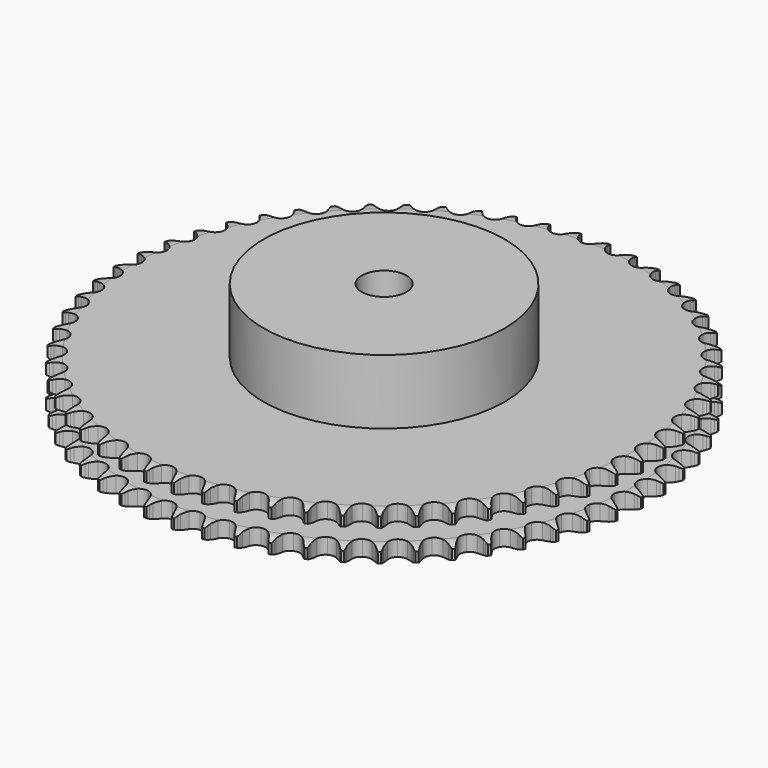
from build123d import *

# Parameters (mm, degrees)
PAD_DEPTH         = 21
SKETCH001_R       = 54
PAD001_DEPTH      = 50
SKETCH002_R       = 10
POCKET_DEPTH      = 0.001
POCKET_DEPTH_BACK = 50.001


with BuildPart() as part:
    # Sprocket → Pad (new body)
    with BuildSketch(Plane.XY):
        with BuildLine():
            ThreePointArc((-6.560182, 118.905189), (-5.902758, 117.925471), (-5.423288, 116.847436))
            Line((-5.423288, 116.847436), (-5.010083, 115.649784))
            ThreePointArc((-5.010083, 115.649784), (-4.357623, 114.134023), (-3.488072, 112.731484))
            ThreePointArc((-3.488072, 112.731484), (-1.956919, 111.425579), (0, 110.95624))
            ThreePointArc((0, 110.95624), (1.956919, 111.425579), (3.488072, 112.731484))
            ThreePointArc((3.488072, 112.731484), (4.357623, 114.134023), (5.010083, 115.649784))
            Line((5.010083, 115.649784), (5.423288, 116.847436))
            ThreePointArc((5.423288, 116.847436), (5.902758, 117.925471), (6.560182, 118.905189))
            ThreePointArc((6.560182, 118.905189), (7.105839, 117.859096), (7.463806, 116.734857))
            Line((7.463806, 116.734857), (7.742752, 115.499018))
            ThreePointArc((7.742752, 115.499018), (8.224505, 113.920681), (8.934488, 112.430996))
            ThreePointArc((8.934488, 112.430996), (10.312687, 110.964579), (12.206099, 110.282811))
            ThreePointArc((12.206099, 110.282811), (14.202772, 110.534024), (15.868291, 111.663563))
            Line((15.868291, 111.663563), (17.702102, 114.396718))
            ThreePointArc((17.702102, 114.396718), (17.957011, 114.976911), (18.244551, 115.541645))
            ThreePointArc((18.244551, 115.541645), (18.839704, 116.560392), (19.600915, 117.461841))
            ThreePointArc((19.600915, 117.461841), (20.028181, 116.36207), (20.2603, 115.205276))
            Line((20.2603, 115.205276), (20.4016, 113.946251))
            ThreePointArc((20.4016, 113.946251), (20.7068, 112.324496), (21.248596, 110.765749))
            ThreePointArc((21.248596, 110.765749), (22.457112, 109.156618), (24.264032, 108.270697))
            ThreePointArc((24.264032, 108.270697), (26.276222, 108.300736), (28.055892, 109.240199))
            Line((28.055892, 109.240199), (30.179242, 111.75503))
            ThreePointArc((30.179242, 111.75503), (30.49643, 112.30366), (30.84435, 112.833335))
            ThreePointArc((30.84435, 112.833335), (31.547961, 113.780427), (32.403718, 114.592665))
            ThreePointArc((32.403718, 114.592665), (32.707407, 113.452567), (32.810861, 112.277258))
            Line((32.810861, 112.277258), (32.8128, 111.010331))
            ThreePointArc((32.8128, 111.010331), (32.937741, 109.364844), (33.304774, 107.755956))
            ThreePointArc((33.304774, 107.755956), (34.328938, 106.023645), (36.027432, 104.944325))
            ThreePointArc((36.027432, 104.944325), (38.030715, 104.752823), (39.902931, 105.490806))
            Line((39.902931, 105.490806), (42.290046, 107.756788))
            ThreePointArc((42.290046, 107.756788), (42.665663, 108.267195), (43.06974, 108.755381))
            ThreePointArc((43.06974, 108.755381), (43.873269, 109.619322), (44.813185, 110.33249))
            ThreePointArc((44.813185, 110.33249), (44.989611, 109.165903), (44.963142, 107.986347))
            Line((44.963142, 107.986347), (44.825698, 106.726896))
            ThreePointArc((44.825698, 106.726896), (44.768863, 105.077652), (44.956678, 103.438151))
            ThreePointArc((44.956678, 103.438151), (45.784057, 101.603688), (47.353508, 100.34407))
            ThreePointArc((47.353508, 100.34407), (49.323566, 99.933353), (51.265603, 100.460898))
            Line((51.265603, 100.460898), (53.887507, 102.450525))
            ThreePointArc((53.887507, 102.450525), (54.316993, 102.916513), (54.772322, 103.357284))
            ThreePointArc((54.772322, 103.357284), (55.666014, 104.127586), (56.67868, 104.733028))
            ThreePointArc((56.67868, 104.733028), (56.725701, 103.554113), (56.569633, 102.384628))
            Line((56.569633, 102.384628), (56.294472, 101.14794))
            ThreePointArc((56.294472, 101.14794), (56.056552, 99.514958), (56.062868, 97.864747))
            ThreePointArc((56.062868, 97.864747), (56.68342, 95.950399), (58.104777, 94.525774))
            ThreePointArc((58.104777, 94.525774), (60.017695, 93.900828), (62.00598, 94.21153))
            Line((62.00598, 94.21153), (64.830846, 95.900651))
            ThreePointArc((64.830846, 95.900651), (65.308988, 96.316564), (65.810042, 96.704569))
            ThreePointArc((65.810042, 96.704569), (66.78305, 97.371883), (67.856173, 97.862249))
            ThreePointArc((67.856173, 97.862249), (67.773218, 96.685316), (67.489444, 95.540098))
            Line((67.489444, 95.540098), (67.079908, 94.341186))
            ThreePointArc((67.079908, 94.341186), (66.663791, 92.744288), (66.488532, 91.103398))
            ThreePointArc((66.488532, 91.103398), (66.894723, 89.132403), (68.150733, 87.560064))
            ThreePointArc((68.150733, 87.560064), (69.983292, 86.728474), (71.993689, 86.818562))
            Line((71.993689, 86.818562), (74.987227, 88.186673))
            ThreePointArc((74.987227, 88.186673), (75.508221, 88.547462), (76.048917, 88.877992))
            ThreePointArc((76.048917, 88.877992), (77.089429, 89.434217), (78.209984, 89.803554))
            ThreePointArc((78.209984, 89.803554), (77.99806, 88.64289), (77.590025, 87.53584))
            Line((77.590025, 87.53584), (77.051084, 86.389258))
            ThreePointArc((77.051084, 86.389258), (76.461821, 84.847828), (76.107114, 83.236177))
            ThreePointArc((76.107114, 83.236177), (76.294014, 81.23246), (77.369431, 79.531492))
            ThreePointArc((77.369431, 79.531492), (79.099386, 78.503353), (81.107492, 78.371735))
            Line((81.107492, 78.371735), (84.233364, 79.402228))
            ThreePointArc((84.233364, 79.402228), (84.790886, 79.703513), (85.364661, 79.972557))
            ThreePointArc((85.364661, 79.972557), (86.460048, 80.410941), (87.614432, 80.654766))
            ThreePointArc((87.614432, 80.654766), (87.276111, 79.52446), (86.748768, 78.469016))
            Line((86.748768, 78.469016), (86.086965, 77.388681))
            ThreePointArc((86.086965, 77.388681), (85.331708, 75.921431), (84.801859, 74.358582))
            ThreePointArc((84.801859, 74.358582), (84.7672, 72.346466), (85.648969, 70.537517))
            ThreePointArc((85.648969, 70.537517), (87.25532, 69.325308), (89.236759, 68.973581))
            Line((89.236759, 68.973581), (92.457023, 69.653947))
            ThreePointArc((92.457023, 69.653947), (93.044304, 69.892073), (93.644195, 70.096363))
            ThreePointArc((93.644195, 70.096363), (94.781159, 70.411585), (95.955359, 70.526939))
            ThreePointArc((95.955359, 70.526939), (95.494749, 69.440711), (94.854499, 68.449685))
            Line((94.854499, 68.449685), (94.077866, 67.44871))
            ThreePointArc((94.077866, 67.44871), (93.165784, 66.07345), (92.467225, 64.578374))
            ThreePointArc((92.467225, 64.578374), (92.211426, 62.582283), (92.888844, 60.687311))
            ThreePointArc((92.888844, 60.687311), (94.352093, 59.305748), (96.282813, 58.738181))
            Line((96.282813, 58.738181), (99.558378, 59.060163))
            ThreePointArc((99.558378, 59.060163), (100.168291, 59.232237), (100.787014, 59.369295))
            ThreePointArc((100.787014, 59.369295), (101.951754, 59.557528), (103.131518, 59.54301))
            ThreePointArc((103.131518, 59.54301), (102.554209, 58.514045), (101.808824, 57.599467))
            Line((101.808824, 57.599467), (100.92679, 56.690003))
            ThreePointArc((100.92679, 56.690003), (99.868953, 55.423426), (99.010163, 54.014272))
            ThreePointArc((99.010163, 54.014272), (98.536331, 52.058436), (99.001175, 50.100444))
            ThreePointArc((99.001175, 50.100444), (100.30356, 48.566296), (102.160125, 47.789779))
            Line((102.160125, 47.789779), (105.451229, 47.749467))
            ThreePointArc((105.451229, 47.749467), (106.07637, 47.853402), (106.706415, 47.921563))
            ThreePointArc((106.706415, 47.921563), (107.884794, 47.980523), (109.0558, 47.836309))
            ThreePointArc((109.0558, 47.836309), (108.368801, 46.877099), (107.527329, 46.05007))
            Line((107.527329, 46.05007), (106.550599, 45.243157))
            ThreePointArc((106.550599, 45.243157), (105.359849, 44.100638), (104.351253, 42.79451))
            ThreePointArc((104.351253, 42.79451), (103.665138, 40.90267), (103.911766, 38.905425))
            ThreePointArc((103.911766, 38.905425), (105.037477, 37.237316), (106.797351, 36.261273))
            Line((106.797351, 36.261273), (110.064046, 35.859158))
            ThreePointArc((110.064046, 35.859158), (110.696826, 35.893691), (111.330546, 35.892129))
            ThreePointArc((111.330546, 35.892129), (112.508258, 35.821099), (113.656292, 35.54894))
            ThreePointArc((113.656292, 35.54894), (112.867942, 34.671127), (111.940597, 33.941687))
            Line((111.940597, 33.941687), (110.881028, 33.247119))
            ThreePointArc((110.881028, 33.247119), (109.571819, 32.242527), (108.425659, 31.055281))
            ThreePointArc((108.425659, 31.055281), (107.535591, 29.250401), (107.561008, 27.238147))
            ThreePointArc((107.561008, 27.238147), (108.496381, 25.456324), (110.138201, 24.292605))
            Line((110.138201, 24.292605), (113.340834, 23.533568))
            ThreePointArc((113.340834, 23.533568), (113.973572, 23.49828), (114.603274, 23.427013))
            ThreePointArc((114.603274, 23.427013), (115.766025, 23.226856), (116.877151, 22.830056))
            ThreePointArc((116.877151, 22.830056), (115.997019, 22.044296), (114.995058, 21.421298))
            Line((114.995058, 21.421298), (113.865512, 20.847507))
            ThreePointArc((113.865512, 20.847507), (112.453735, 19.993036), (111.183925, 18.939082))
            ThreePointArc((111.183925, 18.939082), (110.100707, 17.243072), (109.904606, 15.240234))
            ThreePointArc((109.904606, 15.240234), (110.638287, 13.366328), (112.142123, 12.029058))
            Line((112.142123, 12.029058), (115.241818, 10.922311))
            ThreePointArc((115.241818, 10.922311), (115.866834, 10.817631), (116.484874, 10.677524))
            ThreePointArc((116.484874, 10.677524), (117.618549, 10.350671), (118.67928, 9.834046))
            ThreePointArc((118.67928, 9.834046), (117.718049, 9.149876), (116.653634, 8.640883))
            Line((116.653634, 8.640883), (115.467823, 8.194835))
            ThreePointArc((115.467823, 8.194835), (113.970615, 7.500857), (112.592569, 6.592989))
            ThreePointArc((112.592569, 6.592989), (111.32935, 5.026435), (110.91411, 3.057326))
            ThreePointArc((110.91411, 3.057326), (111.437193, 1.114082), (112.784792, -0.380505))
            Line((112.784792, -0.380505), (115.743922, -1.821527))
            ThreePointArc((115.743922, -1.821527), (116.353629, -1.994329), (116.952505, -2.201575))
            ThreePointArc((116.952505, -2.201575), (118.043343, -2.651158), (119.040803, -3.281337))
            ThreePointArc((119.040803, -3.281337), (118.010142, -3.855611), (116.896194, -4.24442))
            Line((116.896194, -4.24442), (115.668511, -4.557312))
            ThreePointArc((115.668511, -4.557312), (114.104047, -5.082373), (112.634491, -5.833134))
            ThreePointArc((112.634491, -5.833134), (111.206606, -7.251216), (110.577268, -9.162694))
            ThreePointArc((110.577268, -9.162694), (110.883403, -11.151687), (112.058406, -12.78545))
            Line((112.058406, -12.78545), (114.841052, -14.543255))
            ThreePointArc((114.841052, -14.543255), (115.428049, -14.78208), (116.000491, -15.05395))
            ThreePointArc((116.000491, -15.05395), (117.03525, -15.620806), (117.957332, -16.356888))
            ThreePointArc((117.957332, -16.356888), (116.869752, -16.814296), (115.719792, -17.078201))
            Line((115.719792, -17.078201), (114.465139, -17.25414))
            ThreePointArc((114.465139, -17.25414), (112.85241, -17.60391), (111.309183, -18.188451))
            ThreePointArc((111.309183, -18.188451), (109.733963, -19.440847), (108.898167, -21.271491))
            ThreePointArc((108.898167, -21.271491), (108.983639, -23.28209), (109.971782, -25.035197))
            Line((109.971782, -25.035197), (112.544167, -27.088447))
            ThreePointArc((112.544167, -27.088447), (113.101328, -27.390397), (113.640388, -27.72359))
            ThreePointArc((113.640388, -27.72359), (114.606508, -28.400838), (115.442019, -29.233889))
            ThreePointArc((115.442019, -29.233889), (114.310721, -29.568878), (113.138709, -29.704677))
            Line((113.138709, -29.704677), (111.872316, -29.741525))
            ThreePointArc((111.872316, -29.741525), (110.230897, -29.911759), (108.632733, -30.322984))
            ThreePointArc((108.632733, -30.322984), (106.9293, -31.394492), (105.89719, -33.122081))
            ThreePointArc((105.89719, -33.122081), (105.760961, -35.129879), (106.550251, -36.981051))
            Line((106.550251, -36.981051), (108.881148, -39.304822))
            ThreePointArc((108.881148, -39.304822), (109.401711, -39.666232), (109.900845, -40.056704))
            ThreePointArc((109.900845, -40.056704), (110.786599, -40.836122), (111.525396, -41.756031))
            ThreePointArc((111.525396, -41.756031), (110.364112, -41.964534), (109.184275, -41.970578))
            Line((109.184275, -41.970578), (107.921515, -41.867888))
            ThreePointArc((107.921515, -41.867888), (106.271331, -41.856519), (104.637628, -42.089438))
            ThreePointArc((104.637628, -42.089438), (102.826659, -42.967051), (101.610765, -44.570614))
            ThreePointArc((101.610765, -44.570614), (101.254488, -46.55124), (101.835343, -48.478004))
            Line((101.835343, -48.478004), (103.89646, -51.04409))
            ThreePointArc((103.89646, -51.04409), (104.374105, -51.460572), (104.827255, -51.903583))
            ThreePointArc((104.827255, -51.903583), (105.62189, -52.775711), (106.255005, -53.77131))
            ThreePointArc((106.255005, -53.77131), (105.077833, -53.850797), (103.904492, -53.727012))
            Line((103.904492, -53.727012), (102.660692, -53.486033))
            ThreePointArc((102.660692, -53.486033), (101.021775, -53.293199), (99.372364, -53.344983))
            ThreePointArc((99.372364, -53.344983), (97.475842, -54.018048), (96.090922, -55.47812))
            ThreePointArc((96.090922, -55.47812), (95.518923, -57.407532), (95.884293, -59.3865))
            Line((95.884293, -59.3865), (97.650609, -62.163751))
            ThreePointArc((97.650609, -62.163751), (98.079539, -62.630251), (98.481204, -63.120423))
            ThreePointArc((98.481204, -63.120423), (99.175075, -64.074674), (99.694823, -65.133879))
            ThreePointArc((99.694823, -65.133879), (98.516052, -65.083385), (97.363449, -64.831274))
            Line((97.363449, -64.831274), (96.153708, -64.454929))
            ThreePointArc((96.153708, -64.454929), (94.545951, -64.082971), (92.900855, -63.952992))
            ThreePointArc((92.900855, -63.952992), (90.9418, -64.413339), (89.404666, -65.712197))
            ThreePointArc((89.404666, -65.712197), (88.623887, -67.566973), (88.769337, -69.574125))
            Line((88.769337, -69.574125), (90.219412, -72.528829))
            ThreePointArc((90.219412, -72.528829), (90.59442, -73.039684), (90.939724, -73.571067))
            ThreePointArc((90.939724, -73.571067), (91.524408, -74.595858), (91.924481, -75.70581))
            ThreePointArc((91.924481, -75.70581), (90.758418, -75.525948), (89.640546, -75.148572))
            Line((89.640546, -75.148572), (88.479548, -74.641429))
            ThreePointArc((88.479548, -74.641429), (86.922467, -74.094863), (85.301655, -73.784699))
            ThreePointArc((85.301655, -73.784699), (83.303848, -74.026739), (81.633159, -75.148616))
            ThreePointArc((81.633159, -75.148616), (80.653077, -76.906244), (80.576841, -78.917214))
            Line((80.576841, -78.917214), (81.693074, -82.013505))
            ThreePointArc((81.693074, -82.013505), (82.009608, -82.562513), (82.294359, -83.128658))
            ThreePointArc((82.294359, -83.128658), (82.76276, -84.211549), (83.0383, -85.358776))
            ThreePointArc((83.0383, -85.358776), (81.899101, -85.051729), (80.829528, -84.553668))
            Line((80.829528, -84.553668), (79.731366, -83.921884))
            ThreePointArc((79.731366, -83.921884), (78.243863, -83.207343), (76.667008, -82.720759))
            ThreePointArc((76.667008, -82.720759), (74.654701, -82.741555), (72.870735, -83.672834))
            ThreePointArc((72.870735, -83.672834), (71.703249, -85.311977), (71.406252, -87.302355))
            Line((71.406252, -87.302355), (72.175093, -90.502649))
            ThreePointArc((72.175093, -90.502649), (72.42931, -91.083146), (72.650052, -91.677179))
            ThreePointArc((72.650052, -91.677179), (72.996483, -92.805026), (73.144147, -93.975602))
            ThreePointArc((73.144147, -93.975602), (72.04564, -93.545097), (71.037348, -92.932397))
            Line((71.037348, -92.932397), (70.015354, -92.183641))
            ThreePointArc((70.015354, -92.183641), (68.615484, -91.309799), (67.101728, -90.652701))
            ThreePointArc((67.101728, -90.652701), (65.099346, -90.452001), (63.223759, -91.181376))
            ThreePointArc((63.223759, -91.181376), (61.88304, -92.682138), (61.368888, -94.627764))
            Line((61.368888, -94.627764), (61.781003, -97.893212))
            ThreePointArc((61.781003, -97.893212), (61.969818, -98.498152), (62.123872, -99.112864))
            ThreePointArc((62.123872, -99.112864), (62.344128, -100.271976), (62.362123, -101.451691))
            ThreePointArc((62.362123, -101.451691), (61.317642, -100.902954), (60.382872, -100.183053))
            Line((60.382872, -100.183053), (59.44945, -99.326413))
            ThreePointArc((59.44945, -99.326413), (58.154206, -98.303878), (56.721923, -97.484242))
            ThreePointArc((56.721923, -97.484242), (54.753773, -97.064481), (52.809333, -97.5831))
            ThreePointArc((52.809333, -97.5831), (51.311655, -98.927263), (50.586588, -100.804519))
            Line((50.586588, -100.804519), (50.636976, -104.095485))
            ThreePointArc((50.636976, -104.095485), (50.758097, -104.717525), (50.843593, -105.345453))
            ThreePointArc((50.843593, -105.345453), (50.935, -106.521759), (50.823107, -107.696294))
            ThreePointArc((50.823107, -107.696294), (49.845331, -107.035986), (48.99543, -106.217622))
            Line((48.99543, -106.217622), (48.16191, -105.263497))
            ThreePointArc((48.16191, -105.263497), (46.987015, -104.10468), (45.653592, -103.132457))
            ThreePointArc((45.653592, -103.132457), (43.743564, -102.498731), (41.753873, -102.800298))
            ThreePointArc((41.753873, -102.800298), (40.117415, -103.971545), (39.190236, -105.757645))
            Line((39.190236, -105.757645), (38.878285, -109.03418))
            ThreePointArc((38.878285, -109.03418), (38.930241, -109.665768), (38.946141, -110.29929))
            ThreePointArc((38.946141, -110.29929), (38.90759, -111.478513), (38.667167, -112.63361))
            ThreePointArc((38.667167, -112.63361), (37.767965, -111.869747), (37.013249, -110.962853))
            Line((37.013249, -110.962853), (36.28975, -109.922825))
            ThreePointArc((36.28975, -109.922825), (35.249465, -108.641793), (34.031087, -107.528783))
            ThreePointArc((34.031087, -107.528783), (32.202367, -106.688785), (30.191577, -106.769639))
            ThreePointArc((30.191577, -106.769639), (28.436205, -107.753754), (27.318167, -109.427016))
            Line((27.318167, -109.427016), (26.647664, -112.649347))
            ThreePointArc((26.647664, -112.649347), (26.629825, -113.282818), (26.575935, -113.914244))
            ThreePointArc((26.575935, -113.914244), (26.407894, -115.082069), (26.041861, -116.203707))
            ThreePointArc((26.041861, -116.203707), (25.232147, -115.34556), (24.581778, -114.361145))
            Line((24.581778, -114.361145), (23.977081, -113.247839))
            ThreePointArc((23.977081, -113.247839), (23.084034, -111.860142), (21.995491, -110.619855))
            ThreePointArc((21.995491, -110.619855), (20.270277, -109.583781), (18.262797, -109.442941))
            ThreePointArc((18.262797, -109.442941), (16.409818, -110.227978), (15.114493, -111.768091))
            Line((15.114493, -111.768091), (14.093577, -114.897104))
            ThreePointArc((14.093577, -114.897104), (14.006158, -115.524767), (13.883134, -116.146433))
            ThreePointArc((13.883134, -116.146433), (13.587642, -117.288684), (13.100441, -118.363248))
            ThreePointArc((13.100441, -118.363248), (12.390045, -117.421234), (11.851917, -116.371248))
            Line((11.851917, -116.371248), (11.373363, -115.198177))
            ThreePointArc((11.373363, -115.198177), (10.638394, -113.72066), (9.6929, -112.368153))
            ThreePointArc((9.6929, -112.368153), (8.092134, -111.148579), (6.112331, -110.787754))
            ThreePointArc((6.112331, -110.787754), (4.184238, -111.364184), (2.72735, -112.752453))
            Line((2.72735, -112.752453), (1.368412, -115.750166))
            ThreePointArc((1.368412, -115.750166), (1.212476, -116.364403), (1.02181, -116.968762))
            ThreePointArc((1.02181, -116.968762), (0.602455, -118.071573), (0, -119.086019))
            ThreePointArc((0, -119.086019), (-0.602455, -118.071573), (-1.02181, -116.968762))
            Line((-1.02181, -116.968762), (-1.368412, -115.750166))
            ThreePointArc((-1.368412, -115.750166), (-1.936381, -114.200764), (-2.72735, -112.752453))
            ThreePointArc((-2.72735, -112.752453), (-4.184238, -111.364184), (-6.112331, -110.787754))
            ThreePointArc((-6.112331, -110.787754), (-8.092134, -111.148579), (-9.6929, -112.368153))
            Line((-9.6929, -112.368153), (-11.373363, -115.198177))
            ThreePointArc((-11.373363, -115.198177), (-11.595924, -115.791532), (-11.851917, -116.371248))
            ThreePointArc((-11.851917, -116.371248), (-12.390045, -117.421234), (-13.100441, -118.363248))
            ThreePointArc((-13.100441, -118.363248), (-13.587642, -117.288684), (-13.883134, -116.146433))
            Line((-13.883134, -116.146433), (-14.093577, -114.897104))
            ThreePointArc((-14.093577, -114.897104), (-14.487652, -113.294625), (-15.114493, -111.768091))
            ThreePointArc((-15.114493, -111.768091), (-16.409818, -110.227978), (-18.262797, -109.442941))
            ThreePointArc((-18.262797, -109.442941), (-20.270277, -109.583781), (-21.995491, -110.619855))
            Line((-21.995491, -110.619855), (-23.977081, -113.247839))
            ThreePointArc((-23.977081, -113.247839), (-24.263565, -113.813109), (-24.581778, -114.361145))
            ThreePointArc((-24.581778, -114.361145), (-25.232147, -115.34556), (-26.041861, -116.203707))
            ThreePointArc((-26.041861, -116.203707), (-26.407894, -115.082069), (-26.575935, -113.914244))
            Line((-26.575935, -113.914244), (-26.647664, -112.649347))
            ThreePointArc((-26.647664, -112.649347), (-26.863061, -111.013242), (-27.318167, -109.427016))
            ThreePointArc((-27.318167, -109.427016), (-28.436205, -107.753754), (-30.191577, -106.769639))
            ThreePointArc((-30.191577, -106.769639), (-32.202367, -106.688785), (-34.031087, -107.528783))
            Line((-34.031087, -107.528783), (-36.28975, -109.922825))
            ThreePointArc((-36.28975, -109.922825), (-36.636679, -110.453149), (-37.013249, -110.962853))
            ThreePointArc((-37.013249, -110.962853), (-37.767965, -111.869747), (-38.667167, -112.63361))
            ThreePointArc((-38.667167, -112.63361), (-38.90759, -111.478513), (-38.946141, -110.29929))
            Line((-38.946141, -110.29929), (-38.878285, -109.03418))
            ThreePointArc((-38.878285, -109.03418), (-38.91239, -107.384309), (-39.190236, -105.757645))
            ThreePointArc((-39.190236, -105.757645), (-40.117415, -103.971545), (-41.753873, -102.800298))
            ThreePointArc((-41.753873, -102.800298), (-43.743564, -102.498731), (-45.653592, -103.132457))
            Line((-45.653592, -103.132457), (-48.16191, -105.263497))
            ThreePointArc((-48.16191, -105.263497), (-48.565073, -105.752437), (-48.99543, -106.217622))
            ThreePointArc((-48.99543, -106.217622), (-49.845331, -107.035986), (-50.823107, -107.696294))
            ThreePointArc((-50.823107, -107.696294), (-50.935, -106.521759), (-50.843593, -105.345453))
            Line((-50.843593, -105.345453), (-50.636976, -104.095485))
            ThreePointArc((-50.636976, -104.095485), (-50.489375, -102.451876), (-50.586588, -100.804519))
            ThreePointArc((-50.586588, -100.804519), (-51.311655, -98.927263), (-52.809333, -97.5831))
            ThreePointArc((-52.809333, -97.5831), (-54.753773, -97.064481), (-56.721923, -97.484242))
            Line((-56.721923, -97.484242), (-59.44945, -99.326413))
            ThreePointArc((-59.44945, -99.326413), (-59.903954, -99.768034), (-60.382872, -100.183053))
            ThreePointArc((-60.382872, -100.183053), (-61.317642, -100.902954), (-62.362123, -101.451691))
            ThreePointArc((-62.362123, -101.451691), (-62.344128, -100.271976), (-62.123872, -99.112864))
            Line((-62.123872, -99.112864), (-61.781003, -97.893212))
            ThreePointArc((-61.781003, -97.893212), (-61.453488, -96.275817), (-61.368888, -94.627764))
            ThreePointArc((-61.368888, -94.627764), (-61.88304, -92.682138), (-63.223759, -91.181376))
            ThreePointArc((-63.223759, -91.181376), (-65.099346, -90.452001), (-67.101728, -90.652701))
            Line((-67.101728, -90.652701), (-70.015354, -92.183641))
            ThreePointArc((-70.015354, -92.183641), (-70.515681, -92.572583), (-71.037348, -92.932397))
            ThreePointArc((-71.037348, -92.932397), (-72.04564, -93.545097), (-73.144147, -93.975602))
            ThreePointArc((-73.144147, -93.975602), (-72.996483, -92.805026), (-72.650052, -91.677179))
            Line((-72.650052, -91.677179), (-72.175093, -90.502649))
            ThreePointArc((-72.175093, -90.502649), (-71.671638, -88.931099), (-71.406252, -87.302355))
            ThreePointArc((-71.406252, -87.302355), (-71.703249, -85.311977), (-72.870735, -83.672834))
            ThreePointArc((-72.870735, -83.672834), (-74.654701, -82.741555), (-76.667008, -82.720759))
            Line((-76.667008, -82.720759), (-79.731366, -83.921884))
            ThreePointArc((-79.731366, -83.921884), (-80.271444, -84.253425), (-80.829528, -84.553668))
            ThreePointArc((-80.829528, -84.553668), (-81.899101, -85.051729), (-83.0383, -85.358776))
            ThreePointArc((-83.0383, -85.358776), (-82.76276, -84.211549), (-82.294359, -83.128658))
            Line((-82.294359, -83.128658), (-81.693074, -82.013505))
            ThreePointArc((-81.693074, -82.013505), (-81.019791, -80.506878), (-80.576841, -78.917214))
            ThreePointArc((-80.576841, -78.917214), (-80.653077, -76.906244), (-81.633159, -75.148616))
            ThreePointArc((-81.633159, -75.148616), (-83.303848, -74.026739), (-85.301655, -73.784699))
            Line((-85.301655, -73.784699), (-88.479548, -74.641429))
            ThreePointArc((-88.479548, -74.641429), (-89.05282, -74.911545), (-89.640546, -75.148572))
            ThreePointArc((-89.640546, -75.148572), (-90.758418, -75.525948), (-91.924481, -75.70581))
            ThreePointArc((-91.924481, -75.70581), (-91.524408, -74.595858), (-90.939724, -73.571067))
            Line((-90.939724, -73.571067), (-90.219412, -72.528829))
            ThreePointArc((-90.219412, -72.528829), (-89.384475, -71.105413), (-88.769337, -69.574125))
            ThreePointArc((-88.769337, -69.574125), (-88.623887, -67.566973), (-89.404666, -65.712197))
            ThreePointArc((-89.404666, -65.712197), (-90.9418, -64.413339), (-92.900855, -63.952992))
            Line((-92.900855, -63.952992), (-96.153708, -64.454929))
            ThreePointArc((-96.153708, -64.454929), (-96.753216, -64.66034), (-97.363449, -64.831274))
            ThreePointArc((-97.363449, -64.831274), (-98.516052, -65.083385), (-99.694823, -65.133879))
            ThreePointArc((-99.694823, -65.133879), (-99.175075, -64.074674), (-98.481204, -63.120423))
            Line((-98.481204, -63.120423), (-97.650609, -62.163751))
            ThreePointArc((-97.650609, -62.163751), (-96.664151, -60.840824), (-95.884293, -59.3865))
            ThreePointArc((-95.884293, -59.3865), (-95.518923, -57.407532), (-96.090922, -55.47812))
            ThreePointArc((-96.090922, -55.47812), (-97.475842, -54.018048), (-99.372364, -53.344983))
            Line((-99.372364, -53.344983), (-102.660692, -53.486033))
            ThreePointArc((-102.660692, -53.486033), (-103.279158, -53.624247), (-103.904492, -53.727012))
            ThreePointArc((-103.904492, -53.727012), (-105.077833, -53.850797), (-106.255005, -53.77131))
            ThreePointArc((-106.255005, -53.77131), (-105.62189, -52.775711), (-104.827255, -51.903583))
            Line((-104.827255, -51.903583), (-103.89646, -51.04409))
            ThreePointArc((-103.89646, -51.04409), (-102.770456, -49.83771), (-101.835343, -48.478004))
            ThreePointArc((-101.835343, -48.478004), (-101.254488, -46.55124), (-101.610765, -44.570614))
            ThreePointArc((-101.610765, -44.570614), (-102.826659, -42.967051), (-104.637628, -42.089438))
            Line((-104.637628, -42.089438), (-107.921515, -41.867888))
            ThreePointArc((-107.921515, -41.867888), (-108.551432, -41.937227), (-109.184275, -41.970578))
            ThreePointArc((-109.184275, -41.970578), (-110.364112, -41.964534), (-111.525396, -41.756031))
            ThreePointArc((-111.525396, -41.756031), (-110.786599, -40.836122), (-109.900845, -40.056704))
            Line((-109.900845, -40.056704), (-108.881148, -39.304822))
            ThreePointArc((-108.881148, -39.304822), (-107.629267, -38.229634), (-106.550251, -36.981051))
            ThreePointArc((-106.550251, -36.981051), (-105.760961, -35.129879), (-105.89719, -33.122081))
            ThreePointArc((-105.89719, -33.122081), (-106.9293, -31.394492), (-108.632733, -30.322984))
            Line((-108.632733, -30.322984), (-111.872316, -29.741525))
            ThreePointArc((-111.872316, -29.741525), (-112.506038, -29.741147), (-113.138709, -29.704677))
            ThreePointArc((-113.138709, -29.704677), (-114.310721, -29.568878), (-115.442019, -29.233889))
            ThreePointArc((-115.442019, -29.233889), (-114.606508, -28.400838), (-113.640388, -27.72359))
            Line((-113.640388, -27.72359), (-112.544167, -27.088447))
            ThreePointArc((-112.544167, -27.088447), (-111.181604, -26.157502), (-109.971782, -25.035197))
            ThreePointArc((-109.971782, -25.035197), (-108.983639, -23.28209), (-108.898167, -21.271491))
            ThreePointArc((-108.898167, -21.271491), (-109.733963, -19.440847), (-111.309183, -18.188451))
            Line((-111.309183, -18.188451), (-114.465139, -17.25414))
            ThreePointArc((-114.465139, -17.25414), (-115.094973, -17.184049), (-115.719792, -17.078201))
            ThreePointArc((-115.719792, -17.078201), (-116.869752, -16.814296), (-117.957332, -16.356888))
            ThreePointArc((-117.957332, -16.356888), (-117.03525, -15.620806), (-116.000491, -15.05395))
            Line((-116.000491, -15.05395), (-114.841052, -14.543255))
            ThreePointArc((-114.841052, -14.543255), (-113.384347, -13.767853), (-112.058406, -12.78545))
            ThreePointArc((-112.058406, -12.78545), (-110.883403, -11.151687), (-110.577268, -9.162694))
            ThreePointArc((-110.577268, -9.162694), (-111.206606, -7.251216), (-112.634491, -5.833134))
            Line((-112.634491, -5.833134), (-115.668511, -4.557312))
            ThreePointArc((-115.668511, -4.557312), (-116.286811, -4.418361), (-116.896194, -4.24442))
            ThreePointArc((-116.896194, -4.24442), (-118.010142, -3.855611), (-119.040803, -3.281337))
            ThreePointArc((-119.040803, -3.281337), (-118.043343, -2.651158), (-116.952505, -2.201575))
            Line((-116.952505, -2.201575), (-115.743922, -1.821527))
            ThreePointArc((-115.743922, -1.821527), (-114.210758, -1.211081), (-112.784792, -0.380505))
            ThreePointArc((-112.784792, -0.380505), (-111.437193, 1.114082), (-110.91411, 3.057326))
            ThreePointArc((-110.91411, 3.057326), (-111.32935, 5.026435), (-112.592569, 6.592989))
            Line((-112.592569, 6.592989), (-115.467823, 8.194835))
            ThreePointArc((-115.467823, 8.194835), (-116.067085, 8.400961), (-116.653634, 8.640883))
            ThreePointArc((-116.653634, 8.640883), (-117.718049, 9.149876), (-118.67928, 9.834046))
            ThreePointArc((-118.67928, 9.834046), (-117.618549, 10.350671), (-116.484874, 10.677524))
            Line((-116.484874, 10.677524), (-115.241818, 10.922311))
            ThreePointArc((-115.241818, 10.922311), (-113.650805, 11.360392), (-112.142123, 12.029058))
            ThreePointArc((-112.142123, 12.029058), (-110.638287, 13.366328), (-109.904606, 15.240234))
            ThreePointArc((-109.904606, 15.240234), (-110.100707, 17.243072), (-111.183925, 18.939082))
            Line((-111.183925, 18.939082), (-113.865512, 20.847507))
            ThreePointArc((-113.865512, 20.847507), (-114.438462, 21.118306), (-114.995058, 21.421298))
            ThreePointArc((-114.995058, 21.421298), (-115.997019, 22.044296), (-116.877151, 22.830056))
            ThreePointArc((-116.877151, 22.830056), (-115.766025, 23.226856), (-114.603274, 23.427013))
            Line((-114.603274, 23.427013), (-113.340834, 23.533568))
            ThreePointArc((-113.340834, 23.533568), (-111.711285, 23.793965), (-110.138201, 24.292605))
            ThreePointArc((-110.138201, 24.292605), (-108.496381, 25.456324), (-107.561008, 27.238147))
            ThreePointArc((-107.561008, 27.238147), (-107.535591, 29.250401), (-108.425659, 31.055281))
            Line((-108.425659, 31.055281), (-110.881028, 33.247119))
            ThreePointArc((-110.881028, 33.247119), (-111.42071, 33.579304), (-111.940597, 33.941687))
            ThreePointArc((-111.940597, 33.941687), (-112.867942, 34.671127), (-113.656292, 35.54894))
            ThreePointArc((-113.656292, 35.54894), (-112.508258, 35.821099), (-111.330546, 35.892129))
            Line((-111.330546, 35.892129), (-110.064046, 35.859158))
            ThreePointArc((-110.064046, 35.859158), (-108.415742, 35.938711), (-106.797351, 36.261273))
            ThreePointArc((-106.797351, 36.261273), (-105.037477, 37.237316), (-103.911766, 38.905425))
            ThreePointArc((-103.911766, 38.905425), (-103.665138, 40.90267), (-104.351253, 42.79451))
            Line((-104.351253, 42.79451), (-106.550599, 45.243157))
            ThreePointArc((-106.550599, 45.243157), (-107.050462, 45.632695), (-107.527329, 46.05007))
            ThreePointArc((-107.527329, 46.05007), (-108.368801, 46.877099), (-109.0558, 47.836309))
            ThreePointArc((-109.0558, 47.836309), (-107.884794, 47.980523), (-106.706415, 47.921563))
            Line((-106.706415, 47.921563), (-105.451229, 47.749467))
            ThreePointArc((-105.451229, 47.749467), (-103.804178, 47.647211), (-102.160125, 47.789779))
            ThreePointArc((-102.160125, 47.789779), (-100.30356, 48.566296), (-99.001175, 50.100444))
            ThreePointArc((-99.001175, 50.100444), (-98.536331, 52.058436), (-99.010163, 54.014272))
            Line((-99.010163, 54.014272), (-100.92679, 56.690003))
            ThreePointArc((-100.92679, 56.690003), (-101.380767, 57.132166), (-101.808824, 57.599467))
            ThreePointArc((-101.808824, 57.599467), (-102.554209, 58.514045), (-103.131518, 59.54301))
            ThreePointArc((-103.131518, 59.54301), (-101.951754, 59.557528), (-100.787014, 59.369295))
            Line((-100.787014, 59.369295), (-99.558378, 59.060163))
            ThreePointArc((-99.558378, 59.060163), (-97.932572, 58.777337), (-96.282813, 58.738181))
            ThreePointArc((-96.282813, 58.738181), (-94.352093, 59.305748), (-92.888844, 60.687311))
            ThreePointArc((-92.888844, 60.687311), (-92.211426, 62.582283), (-92.467225, 64.578374))
            Line((-92.467225, 64.578374), (-94.077866, 67.44871))
            ThreePointArc((-94.077866, 67.44871), (-94.480447, 67.93813), (-94.854499, 68.449685))
            ThreePointArc((-94.854499, 68.449685), (-95.494749, 69.440711), (-95.955359, 70.526939))
            ThreePointArc((-95.955359, 70.526939), (-94.781159, 70.411585), (-93.644195, 70.096363))
            Line((-93.644195, 70.096363), (-92.457023, 69.653947))
            ThreePointArc((-92.457023, 69.653947), (-90.872197, 69.193987), (-89.236759, 68.973581))
            ThreePointArc((-89.236759, 68.973581), (-87.25532, 69.325308), (-85.648969, 70.537517))
            ThreePointArc((-85.648969, 70.537517), (-84.7672, 72.346466), (-84.801859, 74.358582))
            Line((-84.801859, 74.358582), (-86.086965, 77.388681))
            ThreePointArc((-86.086965, 77.388681), (-86.433261, 77.919418), (-86.748768, 78.469016))
            ThreePointArc((-86.748768, 78.469016), (-87.276111, 79.52446), (-87.614432, 80.654766))
            ThreePointArc((-87.614432, 80.654766), (-86.460048, 80.410941), (-85.364661, 79.972557))
            Line((-85.364661, 79.972557), (-84.233364, 79.402228))
            ThreePointArc((-84.233364, 79.402228), (-82.708757, 78.770715), (-81.107492, 78.371735))
            ThreePointArc((-81.107492, 78.371735), (-79.099386, 78.503353), (-77.369431, 79.531492))
            ThreePointArc((-77.369431, 79.531492), (-76.294014, 81.23246), (-76.107114, 83.236177))
            Line((-76.107114, 83.236177), (-77.051084, 86.389258))
            ThreePointArc((-77.051084, 86.389258), (-77.336894, 86.954869), (-77.590025, 87.53584))
            ThreePointArc((-77.590025, 87.53584), (-77.99806, 88.64289), (-78.209984, 89.803554))
            ThreePointArc((-78.209984, 89.803554), (-77.089429, 89.434217), (-76.048917, 88.877992))
            Line((-76.048917, 88.877992), (-74.987227, 88.186673))
            ThreePointArc((-74.987227, 88.186673), (-73.541345, 87.391273), (-71.993689, 86.818562))
            ThreePointArc((-71.993689, 86.818562), (-69.983292, 86.728474), (-68.150733, 87.560064))
            ThreePointArc((-68.150733, 87.560064), (-66.894723, 89.132403), (-66.488532, 91.103398))
            Line((-66.488532, 91.103398), (-67.079908, 94.341186))
            ThreePointArc((-67.079908, 94.341186), (-67.30176, 94.934806), (-67.489444, 95.540098))
            ThreePointArc((-67.489444, 95.540098), (-67.773218, 96.685316), (-67.856173, 97.862249))
            ThreePointArc((-67.856173, 97.862249), (-66.78305, 97.371883), (-65.810042, 96.704569))
            Line((-65.810042, 96.704569), (-64.830846, 95.900651))
            ThreePointArc((-64.830846, 95.900651), (-63.48124, 94.95102), (-62.00598, 94.21153))
            ThreePointArc((-62.00598, 94.21153), (-60.017695, 93.900828), (-58.104777, 94.525774))
            ThreePointArc((-58.104777, 94.525774), (-56.68342, 95.950399), (-56.062868, 97.864747))
            Line((-56.062868, 97.864747), (-56.294472, 101.14794))
            ThreePointArc((-56.294472, 101.14794), (-56.449675, 101.762363), (-56.569633, 102.384628))
            ThreePointArc((-56.569633, 102.384628), (-56.725701, 103.554113), (-56.67868, 104.733028))
            ThreePointArc((-56.67868, 104.733028), (-55.666014, 104.127586), (-54.772322, 103.357284))
            Line((-54.772322, 103.357284), (-53.887507, 102.450525))
            ThreePointArc((-53.887507, 102.450525), (-52.650559, 101.35819), (-51.265603, 100.460898))
            ThreePointArc((-51.265603, 100.460898), (-49.323566, 99.933353), (-47.353508, 100.34407))
            ThreePointArc((-47.353508, 100.34407), (-45.784057, 101.603688), (-44.956678, 103.438151))
            Line((-44.956678, 103.438151), (-44.825698, 106.726896))
            ThreePointArc((-44.825698, 106.726896), (-44.912367, 107.354663), (-44.963142, 107.986347))
            ThreePointArc((-44.963142, 107.986347), (-44.989611, 109.165903), (-44.813185, 110.33249))
            ThreePointArc((-44.813185, 110.33249), (-43.873269, 109.619322), (-43.06974, 108.755381))
            Line((-43.06974, 108.755381), (-42.290046, 107.756788))
            ThreePointArc((-42.290046, 107.756788), (-41.180772, 106.535008), (-39.902931, 105.490806))
            ThreePointArc((-39.902931, 105.490806), (-38.030715, 104.752823), (-36.027432, 104.944325))
            ThreePointArc((-36.027432, 104.944325), (-34.328938, 106.023645), (-33.304774, 107.755956))
            Line((-33.304774, 107.755956), (-32.8128, 111.010331))
            ThreePointArc((-32.8128, 111.010331), (-32.829884, 111.643822), (-32.810861, 112.277258))
            ThreePointArc((-32.810861, 112.277258), (-32.707407, 113.452567), (-32.403718, 114.592665))
            ThreePointArc((-32.403718, 114.592665), (-31.547961, 113.780427), (-30.84435, 112.833335))
            Line((-30.84435, 112.833335), (-30.179242, 111.75503))
            ThreePointArc((-30.179242, 111.75503), (-29.211106, 110.418637), (-28.055892, 109.240199))
            ThreePointArc((-28.055892, 109.240199), (-26.276222, 108.300736), (-24.264032, 108.270697))
            ThreePointArc((-24.264032, 108.270697), (-22.457112, 109.156618), (-21.248596, 110.765749))
            Line((-21.248596, 110.765749), (-20.4016, 113.946251))
            ThreePointArc((-20.4016, 113.946251), (-20.348891, 114.577777), (-20.2603, 115.205276))
            ThreePointArc((-20.2603, 115.205276), (-20.028181, 116.36207), (-19.600915, 117.461841))
            ThreePointArc((-19.600915, 117.461841), (-18.839704, 116.560392), (-18.244551, 115.541645))
            Line((-18.244551, 115.541645), (-17.702102, 114.396718))
            ThreePointArc((-17.702102, 114.396718), (-16.886856, 112.961932), (-15.868291, 111.663563))
            ThreePointArc((-15.868291, 111.663563), (-14.202772, 110.534024), (-12.206099, 110.282811))
            ThreePointArc((-12.206099, 110.282811), (-10.312687, 110.964579), (-8.934488, 112.430996))
            Line((-8.934488, 112.430996), (-7.742752, 115.499018))
            ThreePointArc((-7.742752, 115.499018), (-7.62089, 116.120913), (-7.463806, 116.734857))
            ThreePointArc((-7.463806, 116.734857), (-7.105839, 117.859096), (-6.560182, 118.905189))
        make_face()
    extrude(amount=PAD_DEPTH)

    # Sketch → Groove (revolve, cut)
    with BuildSketch(Plane.XZ):
        with BuildLine():
            ThreePointArc((112.533431, 0), (115.44032, 0.329167), (118.2, 1.3))
            Line((118.2, 1.3), (118.2, 5.7))
            ThreePointArc((118.2, 5.7), (115.44032, 6.670833), (112.533431, 7))
            Line((54, 7), (112.533431, 7))
            Line((54, 14), (54, 7))
            Line((112.533431, 14), (54, 14))
            ThreePointArc((112.533431, 14), (115.44032, 14.329167), (118.2, 15.3))
            Line((118.2, 15.3), (118.2, 19.7))
            ThreePointArc((118.2, 19.7), (115.44032, 20.670833), (112.533431, 21))
            Line((112.533431, 21), (122.533431, 21))
            Line((122.533431, 21), (122.533431, 0))
            Line((112.533431, 0), (122.533431, 0))
        make_face()
    revolve(axis=Axis((0, 0, 0), (0, 0, 1)), mode=Mode.SUBTRACT)

    # Sketch001 → Pad001 (join)
    with BuildSketch(Plane.XY):
        Circle(SKETCH001_R)
    extrude(amount=PAD001_DEPTH)

    # Sketch002 → Pocket (cut, two sides)
    with BuildSketch(Plane.XY) as pocket_sk:
        Circle(SKETCH002_R)
    extrude(amount=-POCKET_DEPTH, mode=Mode.SUBTRACT)
    extrude(pocket_sk.sketch, amount=POCKET_DEPTH_BACK, mode=Mode.SUBTRACT)


solid = part.part
